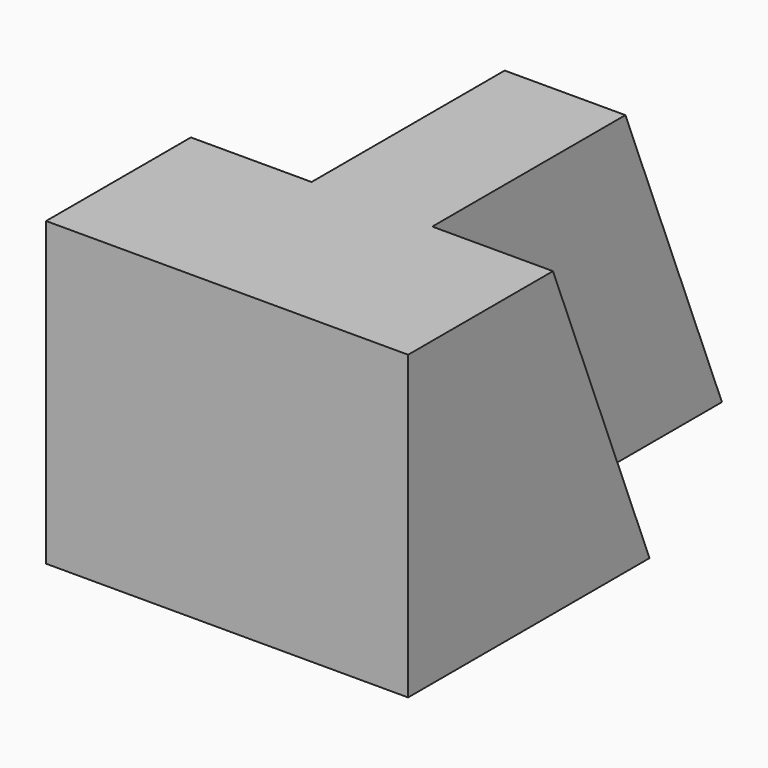
from build123d import *

# Parameters (mm, degrees)
F1_DEPTH = 31.75
F3_DEPTH = 12.7
F5_DEPTH = 12.7
F7_DEPTH = 12.7


with BuildPart() as f1:
    # F0 (on Top) → F1 (new body)
    with BuildSketch(Plane.XY):
        Polygon((0, 31.75), (0, 0), (38.1, 0), (38.1, 31.75), (25.4, 31.75), (25.4, 57.15), (12.7, 57.15), (12.7, 31.75), align=None)
    extrude(amount=F1_DEPTH)

    # F2 (on face) → F3 (cut)
    with BuildSketch(Plane(origin=(0, 0, 0), x_dir=(0, -1, 0), z_dir=(-1, 0, 0))):
        Polygon((-31.75, 31.75), (-31.75, 0), (-19.05, 31.75), align=None)
    extrude(amount=-F3_DEPTH, mode=Mode.SUBTRACT)

    # F4 (on face) → F5 (cut)
    with BuildSketch(Plane.YZ.offset(38.1)):
        Polygon((19.05, 31.75), (31.75, 0), (31.75, 31.75), align=None)
    extrude(amount=-F5_DEPTH, mode=Mode.SUBTRACT)

    # F6 (on face) → F7 (cut)
    with BuildSketch(Plane.YZ.offset(25.4)):
        Polygon((57.15, 0), (57.15, 31.75), (44.45, 31.75), align=None)
    extrude(amount=-F7_DEPTH, mode=Mode.SUBTRACT)


solid = f1.part
